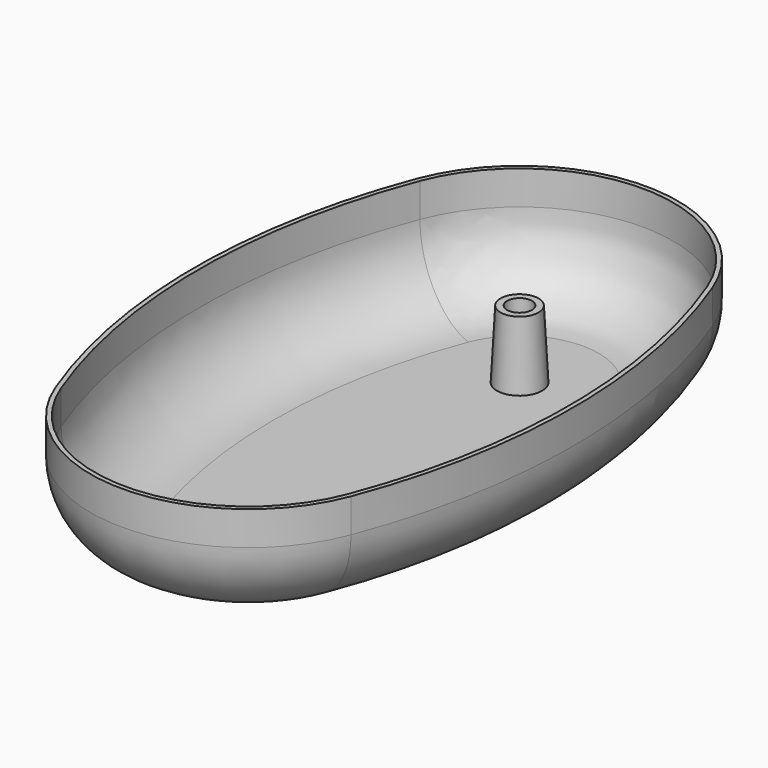
from build123d import *

# Parameters (mm, degrees)
F1_DEPTH       = 50
F2_R           = 35
F3_T           = -2
F4_R           = 10
F5_DEPTH       = 30
F5_TAPER       = 3
F7_D           = 11
F7_CBORE_D     = 17.25
F7_CBORE_DEPTH = 10


with BuildPart() as f1:
    # F0 (on Top) → F1 (new body)
    with BuildSketch(Plane.XY):
        with BuildLine():
            ThreePointArc((65.3834841531, 100), (0, 145), (-65.3834841531, 100))
            ThreePointArc((-65.3834841531, 100), (-83.8495475407, 0), (-65.3834841531, -100))
            ThreePointArc((-65.3834841531, -100), (0, -145), (65.3834841531, -100))
            ThreePointArc((65.3834841531, -100), (83.8495475407, 0), (65.3834841531, 100))
        make_face()
    extrude(amount=F1_DEPTH)

    # F2
    f2_edges = [f1.edges().sort_by_distance(p)[0] for p in [
        (0, -145, 0),
    ]]
    fillet(f2_edges, radius=F2_R)

    # F3
    f3_openings = [f1.faces().sort_by_distance(p)[0] for p in [
        (0, 0, 50),
    ]]
    offset(amount=F3_T, openings=f3_openings)

    # F4 (on face) → F5 (join)
    with BuildSketch(Plane.XY.offset(2)):
        with Locations((0, 75)):
            Circle(F4_R)
    extrude(amount=F5_DEPTH, taper=F5_TAPER)

    # F7 (through all)
    with Locations(Plane(origin=(0, 0, 0), x_dir=(1, 0, 0), z_dir=(0, 0, -1))):
        with Locations((0, -75)):
            CounterBoreHole(F7_D / 2, F7_CBORE_D / 2, F7_CBORE_DEPTH)


solid = f1.part
